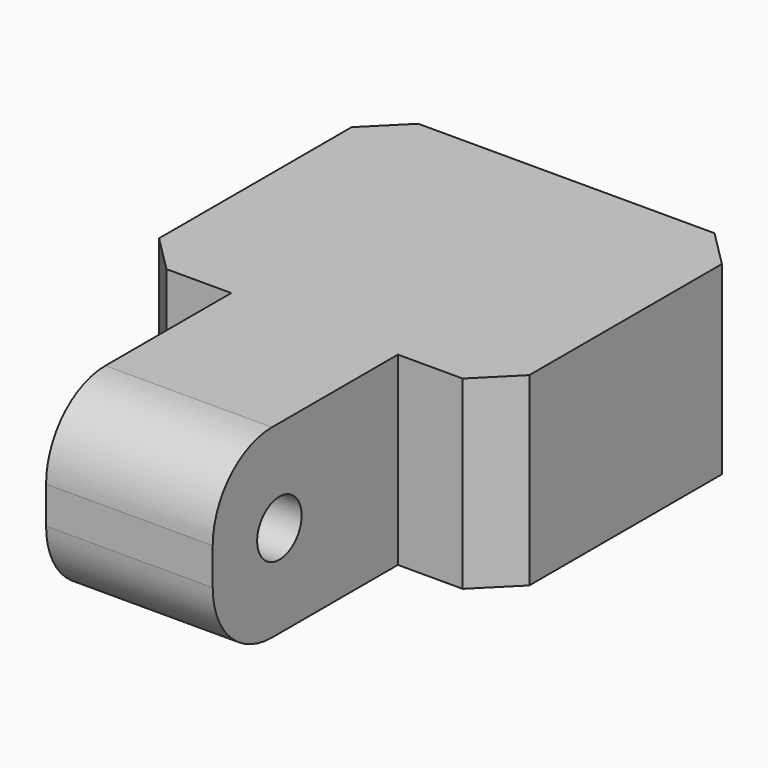
from build123d import *

# Parameters (mm, degrees)
PAD001_DEPTH    = 10
SKETCH004_R     = 1.5
POCKET002_DEPTH = 14.501
SKETCH005_R     = 2.5
POCKET003_DEPTH = 3
FILLET_R        = 4
CHAMFER001_SIZE = 2


with BuildPart() as part:
    # Sketch003 → Pad001 (new body)
    with BuildSketch(Plane.XY):
        Polygon((0, 18), (5.5, 18), (5.5, 5.5), (14.5, 5.5), (14.5, 18), (20, 18), (20, 35), (0, 35), align=None)
    extrude(amount=PAD001_DEPTH)

    # Sketch004 (on Face4 of Pad001) → Pocket002 (cut, through all)
    with BuildSketch(Plane.YZ.offset(14.5)):
        with Locations((10, 5)):
            Circle(SKETCH004_R)
    extrude(amount=-POCKET002_DEPTH, mode=Mode.SUBTRACT)

    # Sketch005 (on Face4 of Pocket002) → Pocket003 (cut)
    with BuildSketch(Plane(origin=(0, 0, 0), x_dir=(1, 0, 0), z_dir=(0, 0, -1))):
        with Locations((10, -30)):
            Circle(SKETCH005_R)
    extrude(amount=-POCKET003_DEPTH, mode=Mode.SUBTRACT)

    # Fillet
    fillet_edges = [part.edges().sort_by_distance(p)[0] for p in [
        (10, 5.5, 10),
        (10, 5.5, 0),
    ]]
    fillet(fillet_edges, radius=FILLET_R)

    # Chamfer001
    chamfer001_edges = [part.edges().sort_by_distance(p)[0] for p in [
        (0, 35, 5),
        (0, 18, 5),
        (20, 35, 5),
        (20, 18, 5),
    ]]
    chamfer(chamfer001_edges, length=CHAMFER001_SIZE)


with BuildPart() as part_1:
    # Body001 placement: moved
    add(part.part.moved(Location((0, 0, 10))))


solid = part_1.part
